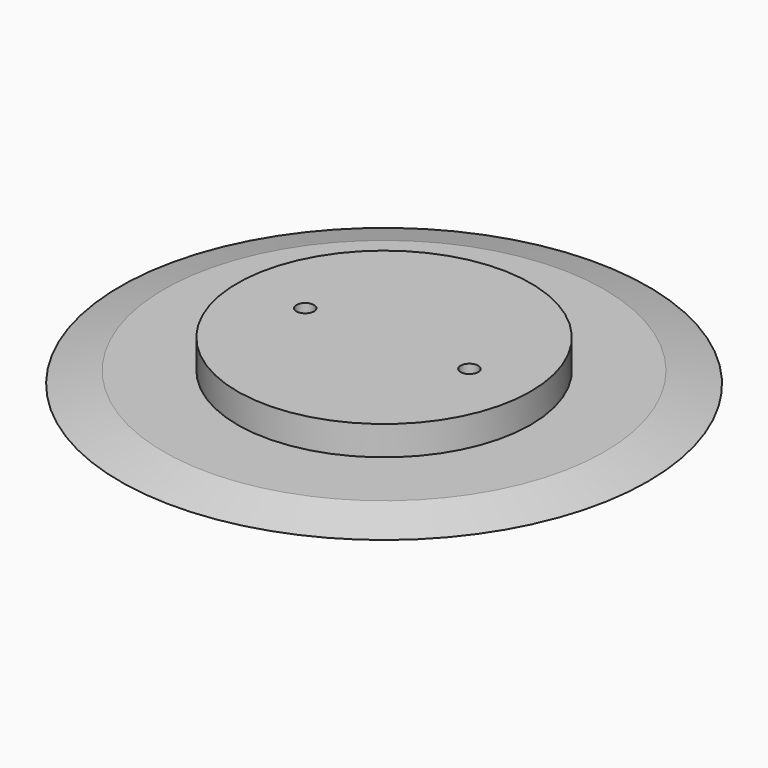
from build123d import *

# Parameters (mm, degrees)
F0_R     = 25
F1_DEPTH = 7
F3_D     = 3
F4_R     = 45
F5_DEPTH = 2
F5_TAPER = 75


with BuildPart() as f1:
    # F0 (on Top) → F1 (new body)
    with BuildSketch(Plane.XY):
        Circle(F0_R)
    extrude(amount=F1_DEPTH)

    # F3 (through all)
    with Locations(Plane.XY.offset(7)):
        with Locations((-13.4488181525, 0), (14.5511818475, 0)):
            Hole(F3_D / 2)


with BuildPart() as f5:
    # F4 (on Top) → F5 (new body)
    with BuildSketch(Plane.XY):
        Circle(F4_R)
    extrude(amount=F5_DEPTH, taper=F5_TAPER)


solid = Compound([f1.part, f5.part])
